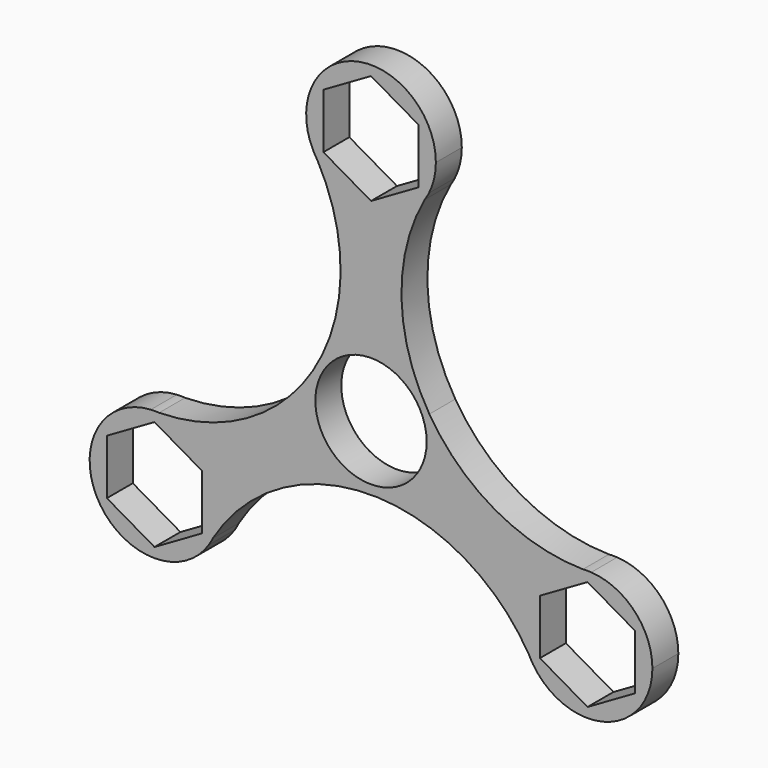
from build123d import *

# Parameters (mm, degrees)
F0_R     = 10.9
F1_DEPTH = 6.35


with BuildPart() as f1:
    # F0 (on Front) → F1 (new body)
    with BuildSketch(Plane.XZ):
        with BuildLine():
            ThreePointArc((11.341128, 43.011204), (12.355613, 45.78938), (12.7, 48.726868))
            ThreePointArc((12.7, 48.726868), (-2.937488, 61.082481), (-11.341128, 43.011204))
            ThreePointArc((-11.341128, 43.011204), (-10.922306, 42.315719), (-10.519233, 41.610989))
            ThreePointArc((-10.519233, 41.610989), (0, 36.026868), (10.519233, 41.610989))
            ThreePointArc((10.519233, 41.610989), (10.922306, 42.315719), (11.341128, 43.011204))
        make_face()
        Polygon((0, 59.49445), (9.325, 54.110659), (9.325, 43.343077), (0, 37.959285), (-9.325, 43.343077), (-9.325, 54.110659), align=None, mode=Mode.SUBTRACT)
        with BuildLine():
            ThreePointArc((-10.519233, 41.610989), (-10.922306, 42.315719), (-11.341128, 43.011204))
            ThreePointArc((-11.341128, 43.011204), (-10.95258, 42.297949), (-10.519233, 41.610989))
        make_face()
        with BuildLine():
            ThreePointArc((10.519233, 41.610989), (10.95258, 42.297949), (11.341128, 43.011204))
            ThreePointArc((11.341128, 43.011204), (10.922306, 42.315719), (10.519233, 41.610989))
        make_face()
        with BuildLine():
            ThreePointArc((10.519233, 41.610989), (0, 36.026868), (-10.519233, 41.610989))
            ThreePointArc((-10.519233, 41.610989), (-5.967201, 23.149777), (-11.428743, 4.936899))
            ThreePointArc((-11.428743, 4.936899), (-24.300415, -7.383263), (-41.497408, -12.044784))
            ThreePointArc((-41.497408, -12.044784), (-33.106319, -16.057504), (-29.700323, -24.712646))
            ThreePointArc((-29.700323, -24.712646), (-30.023908, -27.561217), (-30.978175, -30.26463))
            ThreePointArc((-30.978175, -30.26463), (-17.266312, -17.091848), (1.237274, -12.715244))
            ThreePointArc((1.237274, -12.715244), (18.342683, -17.702358), (30.978175, -30.26463))
            ThreePointArc((30.978175, -30.26463), (31.401801, -18.362646), (41.497408, -12.044784))
            ThreePointArc((41.497408, -12.044784), (24.300415, -7.383263), (11.428743, 4.936899))
            ThreePointArc((11.428743, 4.936899), (5.967201, 23.149777), (10.519233, 41.610989))
        make_face()
        Circle(F0_R, mode=Mode.SUBTRACT)
        with BuildLine():
            ThreePointArc((-29.700323, -24.712646), (-33.106319, -16.057504), (-41.497408, -12.044784))
            ThreePointArc((-41.497408, -12.044784), (-42.309258, -12.048077), (-43.120978, -12.033109))
            ThreePointArc((-43.120978, -12.033109), (-53.398846, -31.062646), (-31.779849, -31.67652))
            ThreePointArc((-31.779849, -31.67652), (-31.386952, -30.966066), (-30.978175, -30.26463))
            ThreePointArc((-30.978175, -30.26463), (-30.023908, -27.561217), (-29.700323, -24.712646))
        make_face()
        Polygon((-51.725323, -19.328855), (-42.400323, -13.945064), (-33.075323, -19.328855), (-33.075323, -30.096438), (-42.400323, -35.480229), (-51.725323, -30.096438), align=None, mode=Mode.SUBTRACT)
        with BuildLine():
            ThreePointArc((-43.120978, -12.033109), (-42.309258, -12.048077), (-41.497408, -12.044784))
            ThreePointArc((-41.497408, -12.044784), (-42.309006, -12.012975), (-43.120978, -12.033109))
        make_face()
        with BuildLine():
            ThreePointArc((43.120978, -12.033109), (42.309006, -12.012975), (41.497408, -12.044784))
            ThreePointArc((41.497408, -12.044784), (42.309258, -12.048077), (43.120978, -12.033109))
        make_face()
        with BuildLine():
            ThreePointArc((43.120978, -12.033109), (42.309258, -12.048077), (41.497408, -12.044784))
            ThreePointArc((41.497408, -12.044784), (31.401801, -18.362646), (30.978175, -30.26463))
            ThreePointArc((30.978175, -30.26463), (31.386952, -30.966066), (31.779849, -31.67652))
            ThreePointArc((31.779849, -31.67652), (46.03419, -36.881665), (55.100323, -24.712646))
            ThreePointArc((55.100323, -24.712646), (51.631854, -15.990901), (43.120978, -12.033109))
        make_face()
        Polygon((42.400323, -35.480229), (33.075323, -30.096438), (33.075323, -19.328855), (42.400323, -13.945064), (51.725323, -19.328855), (51.725323, -30.096438), align=None, mode=Mode.SUBTRACT)
        with BuildLine():
            ThreePointArc((31.779849, -31.67652), (31.386952, -30.966066), (30.978175, -30.26463))
            ThreePointArc((30.978175, -30.26463), (31.356426, -30.983399), (31.779849, -31.67652))
        make_face()
        with BuildLine():
            ThreePointArc((-30.978175, -30.26463), (-31.386952, -30.966066), (-31.779849, -31.67652))
            ThreePointArc((-31.779849, -31.67652), (-31.356426, -30.983399), (-30.978175, -30.26463))
        make_face()
    extrude(amount=F1_DEPTH)


solid = f1.part
